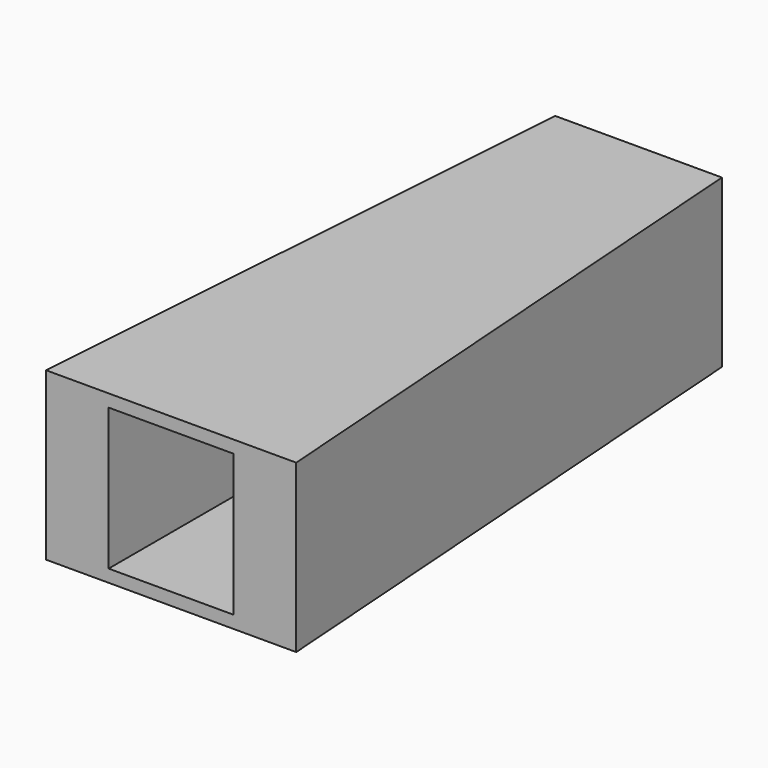
from build123d import *

# Parameters (mm, degrees)
F0_W     = 1
F0_H     = 30
F0_W_2   = 38
F0_H_2   = 1.332180649
F1_DEPTH = 140
F2_W     = 40
F2_H     = 0.123128891
F3_DEPTH = 40
F4_W     = 30
F4_H     = 34
F5_DEPTH = 140.123128891


with BuildPart() as f1:
    # F0 (on Front) → F1 (new body)
    with BuildSketch(Plane.XZ):
        Polygon((-19.5, 15), (-20, 15), (-20, -11.8550653383), (-20, -15), (-19.5, -15), (-19.5, -5.2632528394), (-19.5, -3.2632528394), (-19.5, 2.7367471606), (-19.5, 4.7367471606), align=None)
        Polygon((-19, -15), (-19, 15), (-19.5, 15), (-19.5, 4.7367471606), (-19.5, 2.7367471606), (-19.5, -3.2632528394), (-19.5, -5.2632528394), (-19.5, -15), align=None)
        Polygon((-17.5, -17.5), (-20, -15), (-20, -20), (-15, -20), align=None)
        Polygon((-15, -15), (-19, -15), (-19.5, -15), (-20, -15), (-17.5, -17.5), (-16.767766953, -16.767766953), align=None)
        Polygon((-15, -17.5), (-15, -15), (-16.767766953, -16.767766953), (-17.5, -17.5), (-15, -20), align=None)
        with BuildLine():
            Line((15, -15), (-15, -15))
            Line((-15, -15), (-15, -17.5))
            Line((-15, -17.5), (-11.391207267, -17.5))
            ThreePointArc((-11.391207267, -17.5), (-10.2485464886, -16.3573392216), (-9.1058857102, -17.5))
            Line((-9.1058857102, -17.5), (-7.9234171988, -17.5))
            ThreePointArc((-7.9234171988, -17.5), (-5.948765669, -15.5253484702), (-3.9741141393, -17.5))
            Line((-3.9741141393, -17.5), (3.9741141393, -17.5))
            ThreePointArc((3.9741141393, -17.5), (5.948765669, -15.5253484702), (7.9234171988, -17.5))
            Line((7.9234171988, -17.5), (9.1058857102, -17.5))
            ThreePointArc((9.1058857102, -17.5), (10.2485464886, -16.3573392216), (11.391207267, -17.5))
            Line((11.391207267, -17.5), (15, -17.5))
            Line((15, -17.5), (15, -15))
        make_face()
        with BuildLine():
            Line((-15, -20), (15, -20))
            Line((15, -20), (15, -17.5))
            Line((15, -17.5), (11.391207267, -17.5))
            ThreePointArc((11.391207267, -17.5), (10.2485464886, -18.6426607784), (9.1058857102, -17.5))
            Line((9.1058857102, -17.5), (7.9234171988, -17.5))
            ThreePointArc((7.9234171988, -17.5), (5.948765669, -19.4746515298), (3.9741141393, -17.5))
            Line((3.9741141393, -17.5), (-3.9741141393, -17.5))
            ThreePointArc((-3.9741141393, -17.5), (-5.948765669, -19.4746515298), (-7.9234171988, -17.5))
            Line((-7.9234171988, -17.5), (-9.1058857102, -17.5))
            ThreePointArc((-9.1058857102, -17.5), (-10.2485464886, -18.6426607784), (-11.391207267, -17.5))
            Line((-11.391207267, -17.5), (-15, -17.5))
            Line((-15, -17.5), (-15, -20))
        make_face()
        with BuildLine():
            Line((-9.1058857102, -17.5), (-11.391207267, -17.5))
            ThreePointArc((-11.391207267, -17.5), (-10.2485464886, -18.6426607784), (-9.1058857102, -17.5))
        make_face()
        with BuildLine():
            ThreePointArc((-9.1058857102, -17.5), (-10.2485464886, -16.3573392216), (-11.391207267, -17.5))
            Line((-11.391207267, -17.5), (-9.1058857102, -17.5))
        make_face()
        with BuildLine():
            ThreePointArc((-3.9741141393, -17.5), (-5.948765669, -15.5253484702), (-7.9234171988, -17.5))
            Line((-7.9234171988, -17.5), (-3.9741141393, -17.5))
        make_face()
        with BuildLine():
            Line((-3.9741141393, -17.5), (-7.9234171988, -17.5))
            ThreePointArc((-7.9234171988, -17.5), (-5.948765669, -19.4746515298), (-3.9741141393, -17.5))
        make_face()
        with BuildLine():
            Line((3.9741141393, -17.5), (7.9234171988, -17.5))
            ThreePointArc((7.9234171988, -17.5), (5.948765669, -15.5253484702), (3.9741141393, -17.5))
        make_face()
        with BuildLine():
            ThreePointArc((3.9741141393, -17.5), (5.948765669, -19.4746515298), (7.9234171988, -17.5))
            Line((7.9234171988, -17.5), (3.9741141393, -17.5))
        make_face()
        Polygon((19, 17.5), (-19, 17.5), (-19, 15), (-19, -15), (-15, -15), (15, -15), (19, -15), (19, 15), align=None)
        with BuildLine():
            ThreePointArc((9.1058857102, -17.5), (10.2485464886, -18.6426607784), (11.391207267, -17.5))
            Line((11.391207267, -17.5), (9.1058857102, -17.5))
        make_face()
        with BuildLine():
            Line((9.1058857102, -17.5), (11.391207267, -17.5))
            ThreePointArc((11.391207267, -17.5), (10.2485464886, -16.3573392216), (9.1058857102, -17.5))
        make_face()
        Polygon((20, -20), (20, -15), (19, -15), (15, -15), (15, -17.5), (15, -20), align=None)
        with Locations((19.5, 0)):
            Rectangle(F0_W, F0_H)
        Polygon((-19, 18.832180649), (-19, 20), (-20, 20), (-20, 15), (-19.5, 15), (-19, 15), (-19, 17.5), align=None)
        with Locations((0, 18.1660903245)):
            Rectangle(F0_W_2, F0_H_2)
        Polygon((15, 20), (-15, 20), (-19, 20), (-19, 18.832180649), (19, 18.832180649), (19, 20), align=None)
        Polygon((20, 20), (19, 20), (19, 18.832180649), (19, 17.5), (19, 15), (20, 15), align=None)
    extrude(amount=F1_DEPTH)

    # F2 (on face) → F3 (join, through all)
    with BuildSketch(Plane.XY.offset(20)):
        with Locations((0, -140.0615644455)):
            Rectangle(F2_W, F2_H)
        Polygon((-20, -140.123128891), (-20, -140), (-20, 0), (-30, -140.123128891), align=None)
        Polygon((20, 0), (20, -140), (20, -140.123128891), (30, -140.123128891), align=None)
    extrude(amount=-F3_DEPTH)

    # F4 (on face) → F5 (cut, through all)
    with BuildSketch(Plane(origin=(0, 0, 0), x_dir=(-1, 0, 0), z_dir=(0, 1, 0))):
        Rectangle(F4_W, F4_H)
    extrude(amount=-F5_DEPTH, mode=Mode.SUBTRACT)


solid = f1.part
